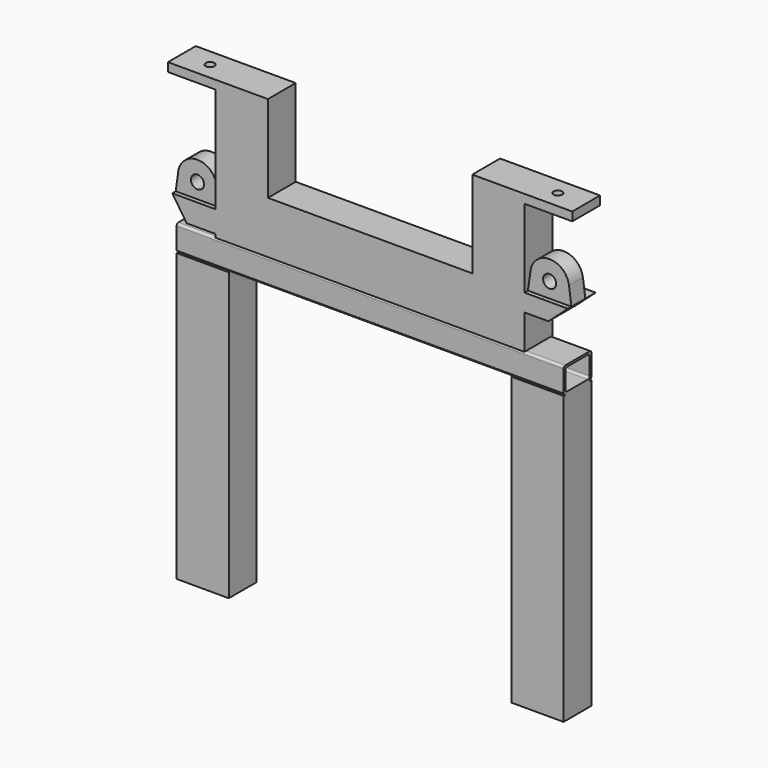
from build123d import *

# Parameters (mm, degrees)
F0_W      = 470
F0_H      = 400
F0_W_2    = 60
F0_H_2    = 20
F1_DEPTH  = 80
F2_W      = 989.0920937061
F2_H      = 720
F3_DEPTH  = 80
F4_R      = 10
F5_DEPTH  = 25
F7_START  = -10
F6_R      = 15
F7_DEPTH  = 40
F10_DEPTH = 80
F12_DEPTH = 890
F13_R     = 5
F15_DEPTH = 1000
F17_DEPTH = 890


with BuildPart() as f1:
    # F0 (on Front) → F1 (new body)
    with BuildSketch(Plane.XZ):
        Polygon((-235, 0), (-355, 0), (-465, 0), (-465, -20), (-355, -20), (-355, -262.1796250343), (-455, -262.1796250343), (-421.8337520964, -312.1796250343), (-355, -312.1796250343), (-355, -1020), (-355, -1040), (-235, -1040), (-235, -840), (235, -840), (235, -1040), (355, -1040), (355, -1020), (355, -240), (410.27864045, -240), (455, -200), (355, -200), (355, -20), (465, -20), (465, 0), (355, 0), (235, 0), (235, -200), (-235, -200), align=None)
        with Locations((0, -520)):
            Rectangle(F0_W, F0_H, mode=Mode.SUBTRACT)
        with Locations((-385, -1030)):
            Rectangle(F0_W_2, F0_H_2)
        with Locations((385, -1030)):
            Rectangle(F0_W_2, F0_H_2)
    extrude(amount=F1_DEPTH)

    # F2 (on face) → F3 (cut)
    with BuildSketch(Plane.XZ.offset(80)):
        with Locations((42.8487956524, -680)):
            Rectangle(F2_W, F2_H)
    extrude(amount=-F3_DEPTH, mode=Mode.SUBTRACT)

    # F4 (on face) → F5 (cut)
    with BuildSketch(Plane.XY):
        with Locations((-400, -40)):
            Circle(F4_R)
        with Locations((400, -40)):
            Circle(F4_R)
    extrude(amount=-F5_DEPTH, mode=Mode.SUBTRACT)

    # F6 (on face) → F7 (join)
    with BuildSketch(Plane.XZ.offset(80).offset(F7_START)):
        with BuildLine():
            Line((-355, -262.1796250343), (-360.3855265494, -221.3018058192))
            ThreePointArc((-360.3855265494, -221.3018058192), (-407.0948116692, -182.2284096551), (-449.9677594515, -225.4765073318))
            Line((-449.9677594515, -225.4765073318), (-455, -262.1796250343))
            Line((-455, -262.1796250343), (-355, -262.1796250343))
        make_face()
        with Locations((-405, -227.1796250343)):
            Circle(F6_R, mode=Mode.SUBTRACT)
        with BuildLine():
            Line((355, -200), (455, -200))
            Line((455, -200), (449.6144734506, -159.1221807849))
            ThreePointArc((449.6144734506, -159.1221807849), (408.6794577223, -120.1506790367), (361.9400684353, -151.9293346135))
            Line((361.9400684353, -151.9293346135), (355, -200))
        make_face()
        with Locations((405, -165)):
            Circle(F6_R, mode=Mode.SUBTRACT)
    extrude(amount=-F7_DEPTH)

    # F9 (on face) → F10 (join)
    with BuildSketch(Plane.XZ.offset(80)):
        Polygon((445, -320), (-445, -320), (-445, -380), (-445, -1040), (-325, -1040), (-325, -380), (325, -380), (325, -1040), (445, -1040), (445, -380), align=None)
    extrude(amount=-F10_DEPTH)

    # F11 (on face) → F12 (cut)
    with BuildSketch(Plane(origin=(-445, 0, 0), x_dir=(0, -1, 0), z_dir=(-1, 0, 0))):
        with BuildLine():
            Line((70, -325), (10, -325))
            ThreePointArc((10, -325), (6.4644660941, -326.4644660941), (5, -330))
            Line((5, -330), (5, -370))
            ThreePointArc((5, -370), (6.4644660941, -373.5355339059), (10, -375))
            Line((10, -375), (70, -375))
            ThreePointArc((70, -375), (73.5355339059, -373.5355339059), (75, -370))
            Line((75, -370), (75, -330))
            ThreePointArc((75, -330), (73.5355339059, -326.4644660941), (70, -325))
        make_face()
    extrude(amount=-F12_DEPTH, mode=Mode.SUBTRACT)

    # F13
    f13_edges = [f1.edges().sort_by_distance(p)[0] for p in [
        (-400, -80, -320),
        (-400, 0, -320),
        (0, -80, -380),
        (0, 0, -380),
        (400, -80, -320),
        (400, 0, -320),
    ]]
    fillet(f13_edges, radius=F13_R)

    # F14 (on face) → F15 (cut)
    with BuildSketch(Plane(origin=(-445, 0, 0), x_dir=(0, -1, 0), z_dir=(-1, 0, 0))):
        Polygon((75, -380), (80, -380), (80, -375), align=None)
        Polygon((0, -375), (0, -380), (5, -380), align=None)
    extrude(amount=-F15_DEPTH, mode=Mode.SUBTRACT)

    # F16 (on face) → F17 (cut)
    with BuildSketch(Plane(origin=(-445, 0, 0), x_dir=(0, -1, 0), z_dir=(-1, 0, 0))):
        with BuildLine():
            ThreePointArc((75, -320), (78.5355339059, -321.4644660941), (80, -325))
            Line((80, -325), (80, -320))
            Line((80, -320), (75, -320))
        make_face()
        with BuildLine():
            ThreePointArc((0, -325), (1.4644660941, -321.4644660941), (5, -320))
            Line((5, -320), (0, -320))
            Line((0, -320), (0, -325))
        make_face()
    extrude(amount=-F17_DEPTH, mode=Mode.SUBTRACT)


solid = f1.part
